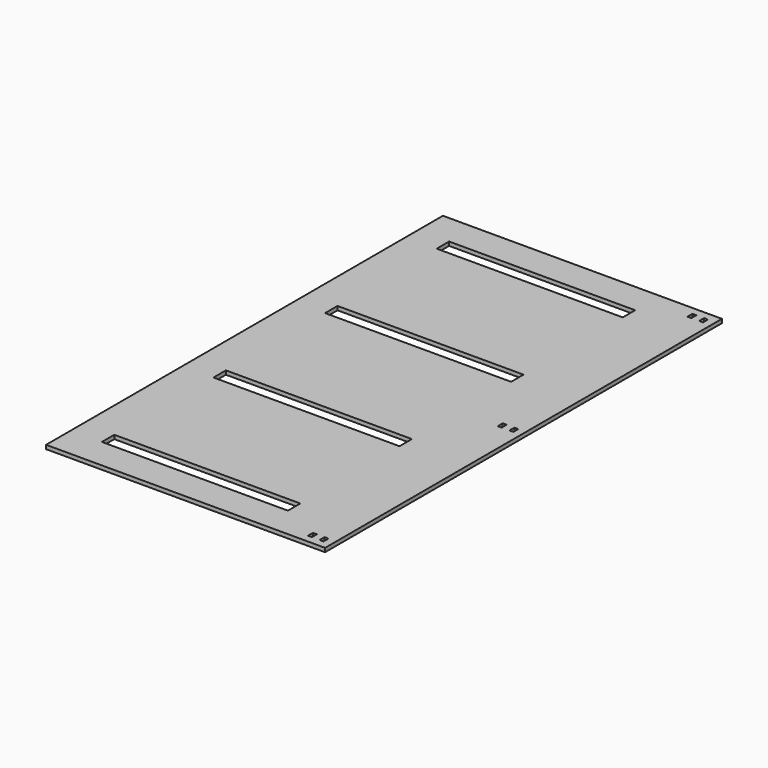
from build123d import *

# Parameters (mm, degrees)
F0_W     = 228.6
F0_H     = 406.4
F0_W_2   = 152.4
F0_H_2   = 12.7
F0_W_3   = 3.175
F0_H_3   = 5.08
F1_DEPTH = 3.175


with BuildPart() as f1:
    # F0 (on Top) → F1 (new body)
    with BuildSketch(Plane.XY):
        with Locations((-114.3, 203.2)):
            Rectangle(F0_W, F0_H)
        with Locations((-127, 31.75)):
            Rectangle(F0_W_2, F0_H_2, mode=Mode.SUBTRACT)
        with Locations((-127, 146.05)):
            Rectangle(F0_W_2, F0_H_2, mode=Mode.SUBTRACT)
        with Locations((-17.4625, 8.89)):
            Rectangle(F0_W_3, F0_H_3, mode=Mode.SUBTRACT)
        with Locations((-7.9375, 8.89)):
            Rectangle(F0_W_3, F0_H_3, mode=Mode.SUBTRACT)
        with Locations((-17.4625, 203.2)):
            Rectangle(F0_W_3, F0_H_3, mode=Mode.SUBTRACT)
        with Locations((-7.9375, 203.2)):
            Rectangle(F0_W_3, F0_H_3, mode=Mode.SUBTRACT)
        with Locations((-127, 260.35)):
            Rectangle(F0_W_2, F0_H_2, mode=Mode.SUBTRACT)
        with Locations((-127, 374.65)):
            Rectangle(F0_W_2, F0_H_2, mode=Mode.SUBTRACT)
        with Locations((-17.4625, 397.51)):
            Rectangle(F0_W_3, F0_H_3, mode=Mode.SUBTRACT)
        with Locations((-7.9375, 397.51)):
            Rectangle(F0_W_3, F0_H_3, mode=Mode.SUBTRACT)
    extrude(amount=F1_DEPTH)


solid = f1.part
